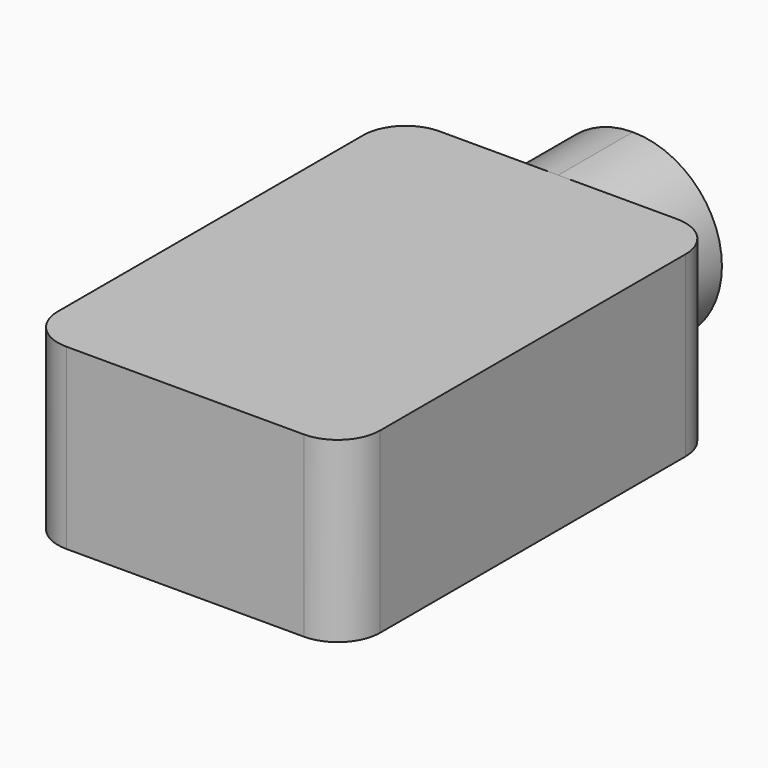
from build123d import *

# Parameters (mm, degrees)
F0_W     = 38
F0_H     = 55
F1_DEPTH = 21
F3_DEPTH = 11
F4_R     = 5


with BuildPart() as f1:
    # F0 (on Top) → F1 (new body)
    with BuildSketch(Plane.XY):
        with Locations((11.086939, 2.041674)):
            Rectangle(F0_W, F0_H)
    extrude(amount=F1_DEPTH)

    # F2 (on face) → F3 (join)
    with BuildSketch(Plane(origin=(0, 29.541674, 0), x_dir=(-1, 0, 0), z_dir=(0, 1, 0))):
        with BuildLine():
            ThreePointArc((-11.086939, 0), (-3.662318, 3.075379), (-0.586939, 10.5))
            ThreePointArc((-0.586939, 10.5), (-3.662318, 17.924621), (-11.086939, 21))
            ThreePointArc((-11.086939, 21), (-21.586939, 10.5), (-11.086939, 0))
        make_face()
    extrude(amount=F3_DEPTH)

    # F4
    f4_edges = [f1.edges().sort_by_distance(p)[0] for p in [
        (-7.913061, 29.541674, 10.5),
        (30.086939, 29.541674, 10.5),
        (30.086939, -25.458326, 10.5),
        (-7.913061, -25.458326, 10.5),
    ]]
    fillet(f4_edges, radius=F4_R)


solid = f1.part
